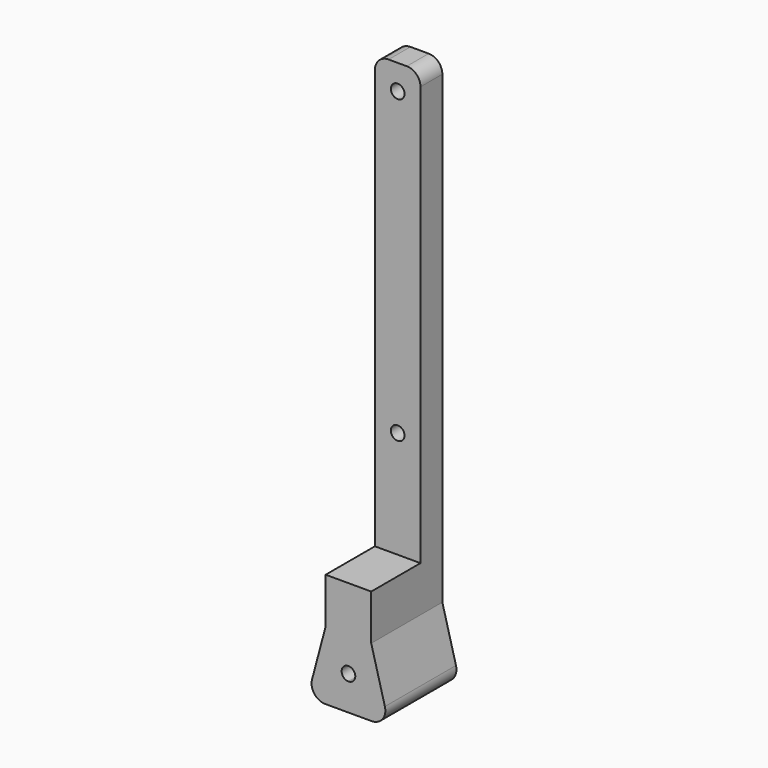
from build123d import *

# Parameters (mm, degrees)
F1_DEPTH = 19.5
F0_R     = 1.5
F2_DEPTH = 6
F3_R     = 3


with BuildPart() as f1:
    # F0 (on Front) → F1 (new body)
    with BuildSketch(Plane.XZ):
        with BuildLine():
            Line((-9, 0), (0, 0))
            Line((0, 0), (0, 6))
            ThreePointArc((0, 6), (-1.5, 7.5), (0, 9))
            Line((0, 9), (0, 25))
            Line((0, 25), (-5, 25))
            Line((-5, 25), (-5, 15))
            Line((-5, 15), (-9, 0))
        make_face()
        with BuildLine():
            Line((0, 6), (0, 0))
            Line((0, 0), (9, 0))
            Line((9, 0), (5, 15))
            Line((5, 15), (5, 25))
            Line((5, 25), (0, 25))
            Line((0, 25), (0, 9))
            ThreePointArc((0, 9), (1.06066, 8.56066), (1.5, 7.5))
            ThreePointArc((1.5, 7.5), (1.06066, 6.43934), (0, 6))
        make_face()
    extrude(amount=F1_DEPTH)

    # F0 (on Front) → F2 (join)
    with BuildSketch(Plane.XZ):
        Polygon((0, 25), (5, 25), (5, 120), (-5, 120), (-5, 25), align=None)
        with Locations((0, 48.5)):
            Circle(F0_R, mode=Mode.SUBTRACT)
        with Locations((0, 114.5)):
            Circle(F0_R, mode=Mode.SUBTRACT)
    extrude(amount=F2_DEPTH)

    # F3
    f3_edges = [f1.edges().sort_by_distance(p)[0] for p in [
        (5, -3, 120),
        (-5, -3, 120),
        (9, -9.75, 0),
        (-9, -9.75, 0),
    ]]
    fillet(f3_edges, radius=F3_R)


solid = f1.part
